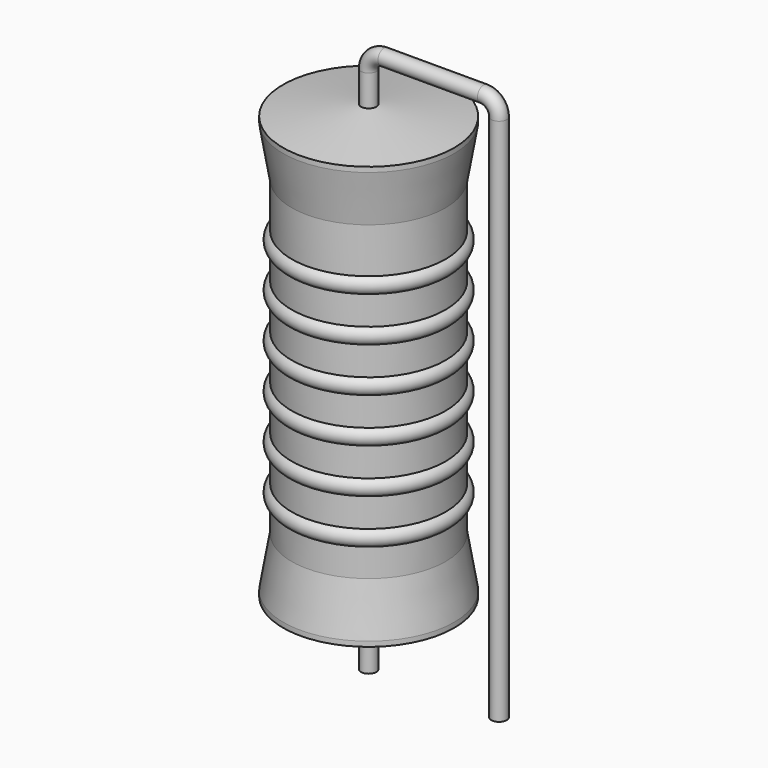
from build123d import *

# Parameters (mm, degrees)
SKETCH_R = 0.45


with BuildPart() as revolution:
    # Sketch002 → Revolution (revolve)
    with BuildSketch(Plane.XZ):
        Polygon((0, 0.1), (0, 26.1), (0.3375, 26.1), (5, 25.45), (5, 25.1575), (4.5, 22.2), (4.5, 4), (5, 1.0425), (5, 0.75), (0.3375, 0.1), align=None)
    revolve(axis=Axis((0, 0, 0), (0, 0, 1)))


with BuildPart() as sweep_body:
    # Sweep: sweep along a path in Sketch001
    with BuildLine(Plane.XZ) as sweep_path:
        Line((0, -3), (0, 27.9))
        ThreePointArc((0, 27.9), (0.263601, 28.536393), (0.899991, 28.8))
        Line((0.899991, 28.8), (6.72, 28.8))
        ThreePointArc((6.72, 28.8), (7.356396, 28.536396), (7.62, 27.9))
        Line((7.62, 27.9), (7.62, -3))
    # Sketch → Sweep (sweep)
    with BuildSketch(Plane.XY.offset(-2)):
        Circle(SKETCH_R)
    sweep(path=sweep_path.line)


with BuildPart() as obj1:
    # Sketch003 → Revolution001 (revolve)
    with BuildSketch(Plane.XZ):
        with BuildLine():
            Line((4, 21.2), (4, 4))
            Line((4, 4), (4.3, 4))
            Line((4.3, 4), (4.3, 5.6))
            ThreePointArc((4.3, 5.6), (4.8, 6.1), (4.3, 6.6))
            Line((4.3, 6.6), (4.3, 8.2))
            ThreePointArc((4.3, 8.2), (4.8, 8.7), (4.3, 9.2))
            Line((4.3, 9.2), (4.3, 10.8))
            ThreePointArc((4.3, 10.8), (4.8, 11.3), (4.3, 11.8))
            Line((4.3, 11.8), (4.3, 13.4))
            ThreePointArc((4.3, 13.4), (4.8, 13.9), (4.3, 14.4))
            Line((4.3, 14.4), (4.3, 16))
            ThreePointArc((4.3, 16), (4.8, 16.5), (4.3, 17))
            Line((4.3, 17), (4.3, 18.6))
            ThreePointArc((4.3, 18.6), (4.8, 19.1), (4.3, 19.6))
            Line((4.3, 21.2), (4.3, 19.6))
            Line((4, 21.2), (4.3, 21.2))
        make_face()
    revolve(axis=Axis((0, 0, 0), (0, 0, 1)))

    # obj1: union Revolution, Sweep body
    add(revolution.part)
    add(sweep_body.part)


solid = obj1.part
